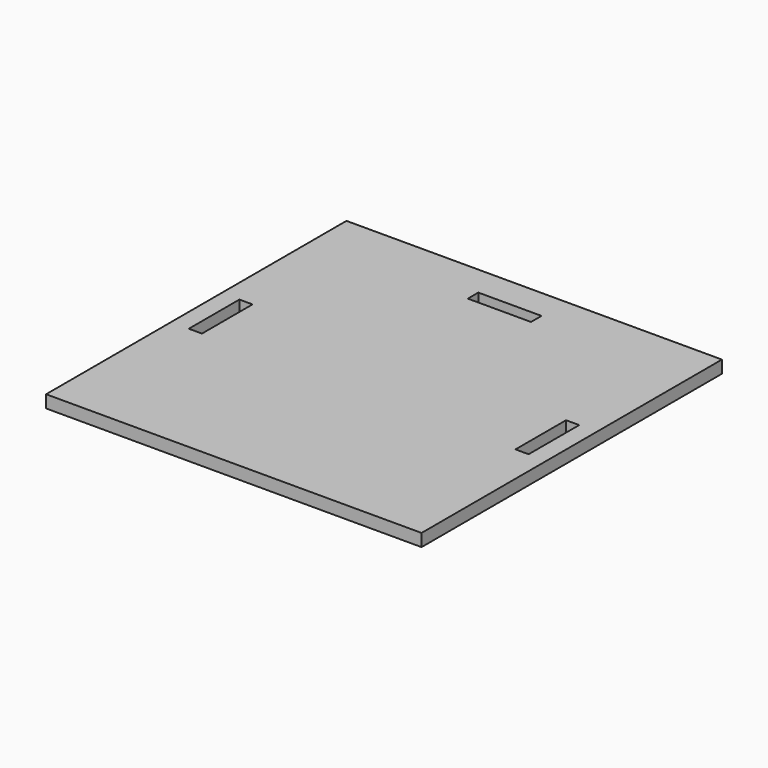
from build123d import *

# Parameters (mm, degrees)
F0_W     = 120
F0_H     = 120
F0_W_2   = 4.2
F0_H_2   = 20.2
F0_W_3   = 20.2
F0_H_3   = 4.2
F1_DEPTH = 4


with BuildPart() as f1:
    # F0 (on Top) → F1 (new body)
    with BuildSketch(Plane.XY):
        Rectangle(F0_W, F0_H)
        with Locations((-52.2, 0)):
            Rectangle(F0_W_2, F0_H_2, mode=Mode.SUBTRACT)
        with Locations((52.2, 0)):
            Rectangle(F0_W_2, F0_H_2, mode=Mode.SUBTRACT)
        with Locations((0, 48.2)):
            Rectangle(F0_W_3, F0_H_3, mode=Mode.SUBTRACT)
    extrude(amount=F1_DEPTH)


solid = f1.part
